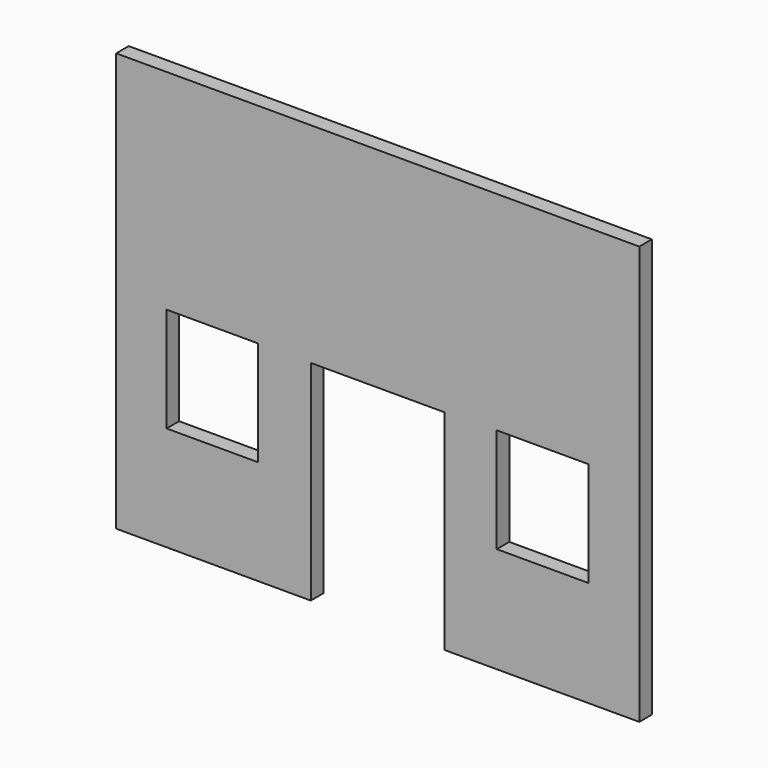
from build123d import *

# Parameters (mm, degrees)
F0_W     = 44.45
F0_H     = 50.8
F1_DEPTH = 7.62


with BuildPart() as f1:
    # F0 (on Front) → F1 (new body)
    with BuildSketch(Plane.XZ):
        Polygon((127, 101.6), (-127, 101.6), (-127, -101.6), (-32.508474, -101.6), (-32.508474, 0), (32.508474, 0), (32.508474, -101.6), (127, -101.6), align=None)
        with Locations((-80.301717, -25.4)):
            Rectangle(F0_W, F0_H, mode=Mode.SUBTRACT)
        with Locations((80.020845, -24.850221)):
            Rectangle(F0_W, F0_H, mode=Mode.SUBTRACT)
    extrude(amount=F1_DEPTH)


solid = f1.part
